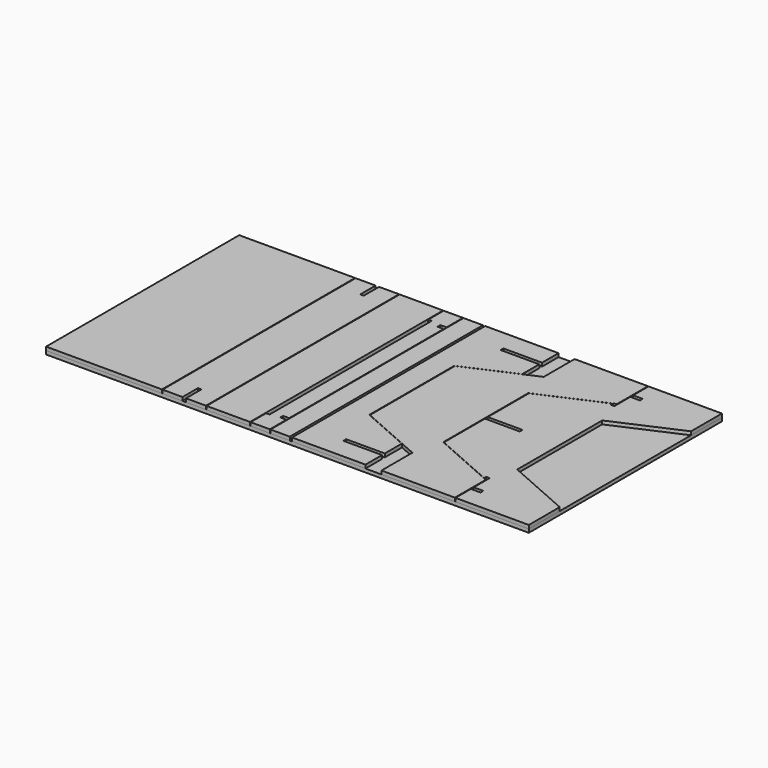
from build123d import *

# Parameters (mm, degrees)
F0_W      = 2500
F0_H      = 1250
F1_DEPTH  = 18
F3_DEPTH  = 18
F6_DEPTH  = 18
F7_W      = 600
F7_H      = 1250
F8_DEPTH  = 18
F9_W      = 225
F9_H      = 1250
F10_DEPTH = 18
F12_W     = 100
F12_H     = 1250
F13_DEPTH = 18
F16_DEPTH = 18
F17_W     = 32
F17_H     = 18
F18_DEPTH = 36.001
F19_W     = 18
F19_H     = 100
F20_DEPTH = 18
F21_W     = 50
F21_H     = 18
F22_DEPTH = 18
F23_W     = 180
F23_H     = 18
F24_DEPTH = 18
F25_W     = 200
F25_H     = 18
F26_DEPTH = 18


with BuildPart() as f1:
    # F0 (on Top) → F1 (new body)
    with BuildSketch(Plane.XY):
        with Locations((1250, 625)):
            Rectangle(F0_W, F0_H)
    extrude(amount=F1_DEPTH)


with BuildPart() as f3:
    # F2 (on face) → F3 (new body)
    with BuildSketch(Plane.XY.offset(18)):
        Polygon((2500, 1050), (2500, 1250), (2120, 1250), (2120, 1050), (1780, 900), (1780, 350), (2120, 200), (2120, 0), (2500, 0), (2500, 200), (2160, 350), (2160, 900), align=None)
    extrude(amount=F3_DEPTH)


with BuildPart() as f4_1:
    # F4: copy of F3
    add(f3.part.moved(Location((-383, 0, 0))))


with BuildPart() as f6:
    # F5 (on face) → F6 (new body)
    with BuildSketch(Plane.XY.offset(18)):
        Polygon((1654, 1014.7058823529), (1654, 1250), (1274, 1250), (1274, 0), (1654, 0), (1654, 235.2941176471), (1394, 350), (1394, 900), align=None)
    extrude(amount=F6_DEPTH)

    # F25 (on face) → F26 (cut, through all)
    with BuildSketch(Plane.XY.offset(36)):
        with Locations((1554, 1134)):
            Rectangle(F25_W, F25_H)
        with Locations((1554, 116)):
            Rectangle(F25_W, F25_H)
    extrude(amount=-F26_DEPTH, mode=Mode.SUBTRACT)


with BuildPart() as f8:
    # F7 (on face) → F8 (new body)
    with BuildSketch(Plane.XY.offset(18)):
        with Locations((300, 625)):
            Rectangle(F7_W, F7_H)
    extrude(amount=F8_DEPTH)


with BuildPart() as f10:
    # F9 (on face) → F10 (new body)
    with BuildSketch(Plane.XY.offset(18)):
        with Locations((715.5, 625)):
            Rectangle(F9_W, F9_H)
    extrude(amount=F10_DEPTH)


with BuildPart() as f11_1:
    # F11: copy of F10
    add(f10.part.moved(Location((228, 0, 0))))


with BuildPart() as f13:
    # F12 (on face) → F13 (new body)
    with BuildSketch(Plane.XY.offset(18)):
        with Locations((1109, 625)):
            Rectangle(F12_W, F12_H)
    extrude(amount=F13_DEPTH)


with BuildPart() as f14_1:
    # F14: copy of F13
    add(f13.part.moved(Location((103, 0, 0))))


with BuildPart() as f13_1:
    add(f13.part)

    # F15 (on face) → F16 (cut)
    with BuildSketch(Plane.XY.offset(36)):
        Polygon((1077, 1150), (1059, 1150), (1059, 100), (1077, 100), (1077, 625), align=None)
    extrude(amount=-F16_DEPTH, mode=Mode.SUBTRACT)

    # F17 (on face) → F18 (cut, through all)
    with BuildSketch(Plane.XY.offset(36)):
        with Locations((1143, 116)):
            Rectangle(F17_W, F17_H)
        with Locations((1143, 1134)):
            Rectangle(F17_W, F17_H)
    extrude(amount=-F18_DEPTH, mode=Mode.SUBTRACT)


with BuildPart() as f10_1:
    add(f10.part)

    # F19 (on face) → F20 (cut)
    with BuildSketch(Plane.XY.offset(36)):
        with Locations((715.5, 1200)):
            Rectangle(F19_W, F19_H)
        with Locations((715.5, 50)):
            Rectangle(F19_W, F19_H)
    extrude(amount=-F20_DEPTH, mode=Mode.SUBTRACT)


with BuildPart() as f3_1:
    add(f3.part)

    # F21 (on face) → F22 (cut, through all)
    with BuildSketch(Plane.XY.offset(36)):
        with Locations((2145, 109)):
            Rectangle(F21_W, F21_H)
        with Locations((2145, 1141)):
            Rectangle(F21_W, F21_H)
        Polygon((2120, 1050), (2102, 1042.0588235294), (2102, 1028.5), (2120, 1028.5), align=None)
        Polygon((2102, 207.9411764706), (2120, 200), (2120, 221.5), (2102, 221.5), align=None)
    extrude(amount=-F22_DEPTH, mode=Mode.SUBTRACT)

    # F23 (on face) → F24 (cut, through all)
    with BuildSketch(Plane.XY.offset(36)):
        with Locations((1870, 625)):
            Rectangle(F23_W, F23_H)
    extrude(amount=-F24_DEPTH, mode=Mode.SUBTRACT)


solid = Compound([f1.part, f4_1.part, f6.part, f8.part, f11_1.part, f14_1.part, f13_1.part, f10_1.part, f3_1.part])
